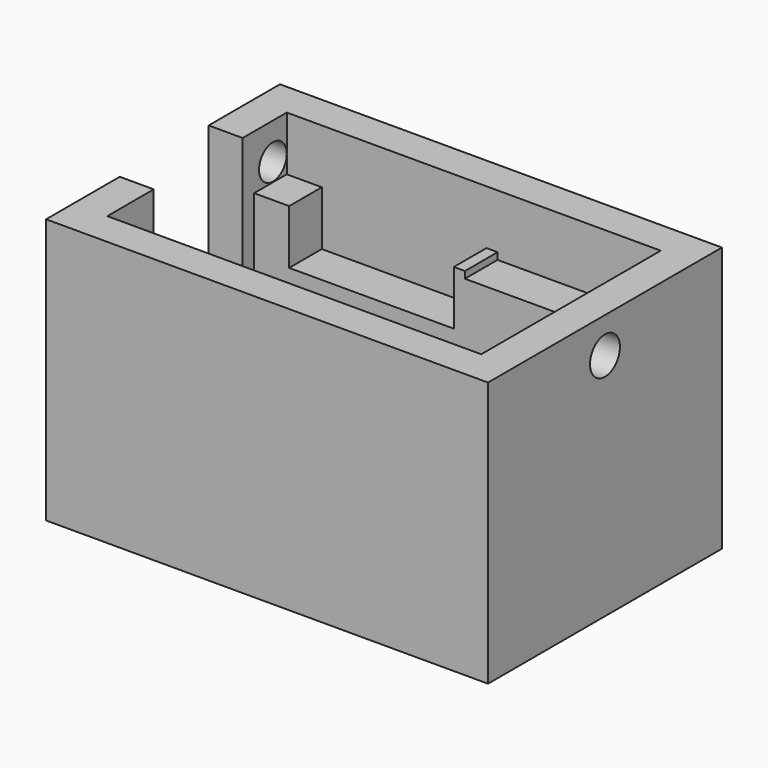
from build123d import *

# Parameters (mm, degrees)
F0_W      = 65
F0_H      = 43
F1_DEPTH  = 2
F2_W      = 65
F2_H      = 43
F2_W_2    = 55
F2_H_2    = 33
F3_DEPTH  = 37
F4_W      = 33
F4_H      = 16
F4_W_2    = 23
F4_H_2    = 13
F5_DEPTH  = 16
F6_R      = 0.9
F7_DEPTH  = 10
F8_W      = 55
F8_H      = 6
F9_DEPTH  = 28
F10_R     = 2.55
F11_DEPTH = 25
F12_R     = 2.75
F13_DEPTH = 25
F15_DEPTH = 29
F16_W     = 31
F16_H     = 6
F17_DEPTH = 1
F18_W     = 16.348152
F18_H     = 34.503732
F19_DEPTH = 5
F20_W     = 24.218268
F20_H     = 6
F21_DEPTH = 8
F22_W     = 6
F22_H     = 16
F23_DEPTH = 5


with BuildPart() as f1:
    # F0 (on Top) → F1 (new body)
    with BuildSketch(Plane.XY):
        Rectangle(F0_W, F0_H)
    extrude(amount=-F1_DEPTH)

    # F2 (on face) → F3 (join)
    with BuildSketch(Plane.XY):
        Rectangle(F2_W, F2_H)
        Rectangle(F2_W_2, F2_H_2, mode=Mode.SUBTRACT)
    extrude(amount=F3_DEPTH)

    # F4 (on face) → F5 (join)
    with BuildSketch(Plane.XY):
        with Locations((3, 0)):
            Rectangle(F4_W, F4_H)
        with Locations((3, 0)):
            Rectangle(F4_W_2, F4_H_2, mode=Mode.SUBTRACT)
    extrude(amount=F5_DEPTH)

    # F6 (on face) → F7 (cut)
    with BuildSketch(Plane.XY.offset(16)):
        with Locations((16.6, 0)):
            Circle(F6_R)
        with Locations((-10.6, 0)):
            Circle(F6_R)
    extrude(amount=-F7_DEPTH, mode=Mode.SUBTRACT)

    # F8 (on face) → F9 (join)
    with BuildSketch(Plane.XY):
        with Locations((0, -13.5)):
            Rectangle(F8_W, F8_H)
        with Locations((0, 13.5)):
            Rectangle(F8_W, F8_H)
    extrude(amount=F9_DEPTH)

    # F10 (on face) → F11 (cut)
    with BuildSketch(Plane(origin=(-32.5, 0, 0), x_dir=(0, -1, 0), z_dir=(-1, 0, 0))):
        with Locations((13.95, 31.65)):
            Circle(F10_R)
        with Locations((-13.95, 31.65)):
            Circle(F10_R)
    extrude(amount=-F11_DEPTH, mode=Mode.SUBTRACT)

    # F12 (on face) → F13 (cut)
    with BuildSketch(Plane.YZ.offset(32.5)):
        with Locations((0, 31.75)):
            Circle(F12_R)
    extrude(amount=-F13_DEPTH, mode=Mode.SUBTRACT)

    # F14 (on face) → F15 (join)
    with BuildSketch(Plane.XY):
        Polygon((21.5, -5.537505), (27.5, -2.537505), (27.5, 2.462495), (21.5, 5.462495), align=None)
    extrude(amount=F15_DEPTH)

    # F16 (on face) → F17 (join)
    with BuildSketch(Plane.XY.offset(28)):
        with Locations((-12, -13.5)):
            Rectangle(F16_W, F16_H)
        with Locations((-12, 13.5)):
            Rectangle(F16_W, F16_H)
    extrude(amount=F17_DEPTH)

    # F18 (on face) → F19 (cut)
    with BuildSketch(Plane(origin=(-32.5, 0, 0), x_dir=(0, -1, 0), z_dir=(-1, 0, 0))):
        with Locations((-0.215107, 19.748134)):
            Rectangle(F18_W, F18_H)
    extrude(amount=-F19_DEPTH, mode=Mode.SUBTRACT)

    # F20 (on face) → F21 (cut)
    with BuildSketch(Plane.XY.offset(29)):
        with Locations((-10.239939, 13.5)):
            Rectangle(F20_W, F20_H)
        with Locations((-10.239939, -13.5)):
            Rectangle(F20_W, F20_H)
    extrude(amount=-F21_DEPTH, mode=Mode.SUBTRACT)

    # F22 (on face) → F23 (cut)
    with BuildSketch(Plane(origin=(-13.5, 0, 0), x_dir=(0, -1, 0), z_dir=(-1, 0, 0))):
        with Locations((0, 8)):
            Rectangle(F22_W, F22_H)
    extrude(amount=-F23_DEPTH, mode=Mode.SUBTRACT)


solid = f1.part
